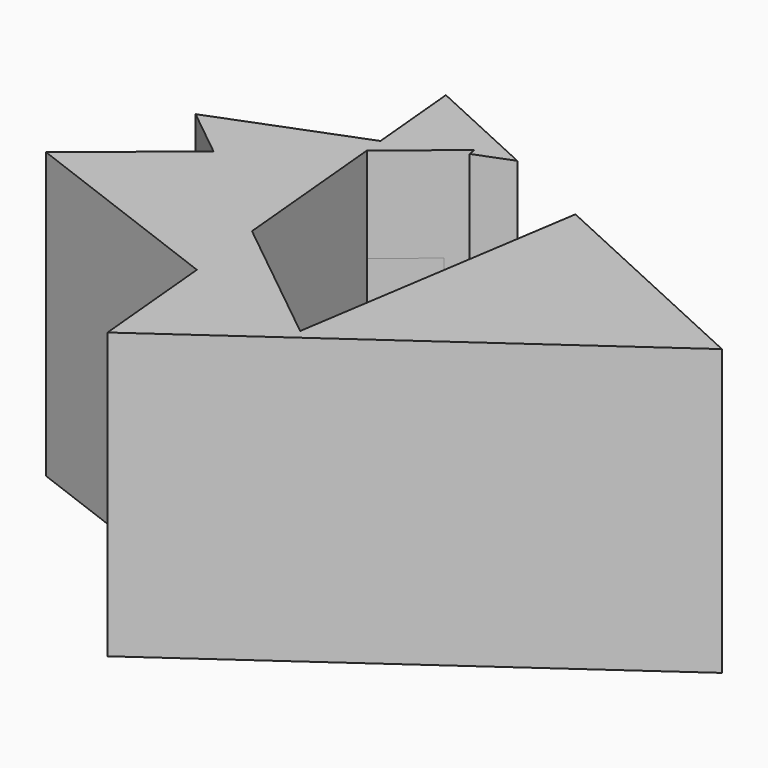
from build123d import *

# Parameters (mm, degrees)
F1_DEPTH = 50.8
F3_DEPTH = 25.4


with BuildPart() as f1:
    # F0 (on Top) → F1 (new body)
    with BuildSketch(Plane.XY):
        Polygon((-12.6629137388, 80.0378082279), (11.9105604724, 68.7390780869), (15.3360962868, 90.9066982567), align=None)
    extrude(amount=F1_DEPTH)



with BuildPart() as f1b:
    # F0 (on Top) → F1, piece 2 (new body)
    with BuildSketch(Plane.XY):
        Polygon((-34.1239980282, -0.2150503281), (-30.985997676, -33.9947231274), (73.8553851843, 40.2572341263), (11.9105604724, 68.7390780869), (-0.0020810035, -8.3510257005), (-9.8334949385, -0.4507815641), (-8.273422718, -9.9886301905), align=None)
        Polygon((-91.9102034833, 21.6327455985), (-34.1239980282, -0.2150503281), (-36.0598630347, 20.6239806361), (-64.8586318768, 43.7658507867), align=None)
        Polygon((-64.8586318768, 43.7658507867), (-40.0920589133, 64.0294115337), (-40.5727160494, 69.2035475963), (-78.2927028271, 54.5610874592), align=None)
        Polygon((-36.0598630347, 20.6239806361), (-34.1239980282, -0.2150503281), (-8.273422718, -9.9886301905), (-9.8334949385, -0.4507815641), align=None)
        Polygon((-64.8586318768, 43.7658507867), (-36.0598630347, 20.6239806361), (-40.0920589133, 64.0294115337), align=None)
        Polygon((-40.5727160494, 69.2035475963), (-40.0920589133, 64.0294115337), (-27.6250758671, 74.2296709181), align=None)
        Polygon((-22.3816425497, 76.2651107443), (-12.6629137388, 80.0378082279), (-42.8693875083, 93.9265564244), (-40.5727160494, 69.2035475963), (-27.6250758671, 74.2296709181), (-22.7068983648, 78.2536345375), align=None)
    extrude(amount=F1_DEPTH)


with BuildPart() as f1_1:
    add(f1.part)

    add(f1b.part)  # F3 merges F1b
    # F2 (on Top) + F1_face (on face) + F1_face1 (on face) → F3 (join)
    with BuildSketch(Plane.XY):
        Polygon((11.9105604724, 68.7390780869), (-0.0020810035, -8.3510257005), (-36.0598630347, 20.6239806361), (-40.0920589133, 64.0294115337), (-22.7068983648, 78.2536345375), (-22.3816425497, 76.2651107443), (-12.6629137388, 80.0378082279), (-42.8693875083, 93.9265564244), (-40.5727160494, 69.2035475963), (-78.2927028271, 54.5610874592), (-64.8586318768, 43.7658507867), (-91.9102034833, 21.6327455985), (-34.1239980282, -0.2150503281), (-30.985997676, -33.9947231274), (73.8553851843, 40.2572341263), align=None)
        with BuildLine():
            add(Edge.make_bspline(
                [(-50.4296496511, 46.5946868062), (-54.7054451045, 47.8722705974), (-66.4098019094, 35.9516436531), (-39.8370794277, 25.946602289), (-45.778728134, 45.2050174432), (-50.4296496511, 46.5946868062)],
                knots=[0, 0, 0, 0, 0.3172189531, 0.6549506471, 1, 1, 1, 1], degree=3))
        make_face(mode=Mode.SUBTRACT)
        with BuildLine():
            add(Edge.make_bspline(
                [(25.4836957902, 45.4683750868), (28.757586761, 44.6744122845), (31.136551035, 27.5849724225), (12.800043704, 32.2532783382), (22.2382097568, 46.2554493079), (25.4836957902, 45.4683750868)],
                knots=[0, 0, 0, 0, 0.35616054, 0.6469295806, 1, 1, 1, 1], degree=3))
        make_face(mode=Mode.SUBTRACT)
        with BuildLine():
            add(Edge.make_bspline(
                [(-50.4296496511, 46.5946868062), (-54.7054451045, 47.8722705974), (-66.4098019094, 35.9516436531), (-39.8370794277, 25.946602289), (-45.778728134, 45.2050174432), (-50.4296496511, 46.5946868062)],
                knots=[0, 0, 0, 0, 0.3172189531, 0.6549506471, 1, 1, 1, 1], degree=3))
        make_face()
        with BuildLine():
            add(Edge.make_bspline(
                [(25.4836957902, 45.4683750868), (28.757586761, 44.6744122845), (31.136551035, 27.5849724225), (12.800043704, 32.2532783382), (22.2382097568, 46.2554493079), (25.4836957902, 45.4683750868)],
                knots=[0, 0, 0, 0, 0.35616054, 0.6469295806, 1, 1, 1, 1], degree=3))
        make_face()
    with BuildSketch(Plane(origin=(-12.5695281599, 29.2954338549, 50.8), x_dir=(1, 0, 0), z_dir=(0, 0, 1))):
        Polygon((12.5674471564, -37.6464595554), (-23.4903348748, -8.6714532188), (-27.5225307534, 34.7339776789), (-10.1373702049, 48.9582006826), (-9.8121143898, 46.9696768894), (-0.0933855789, 50.742374373), (-30.2998593484, 64.6311225695), (-28.0031878895, 39.9081137415), (-65.7231746673, 25.2656536044), (-52.2891037169, 14.4704169318), (-79.3406753235, -7.6626882564), (-21.5544698683, -29.510484183), (-18.4164695162, -63.2901569823), (86.4249133441, 10.9618002714), (24.4800886323, 39.443644232), align=None)
    with BuildSketch(Plane(origin=(-12.5695281599, 29.2954338549, 0), x_dir=(1, 0, 0), z_dir=(0, 0, -1))):
        Polygon((-23.4903348748, 8.6714532188), (12.5674471564, 37.6464595554), (24.4800886323, -39.443644232), (86.4249133441, -10.9618002714), (-18.4164695162, 63.2901569823), (-21.5544698683, 29.510484183), (-79.3406753235, 7.6626882564), (-52.2891037169, -14.4704169318), (-65.7231746673, -25.2656536044), (-28.0031878895, -39.9081137415), (-30.2998593484, -64.6311225695), (-0.0933855789, -50.742374373), (-9.8121143898, -46.9696768894), (-10.1373702049, -48.9582006826), (-27.5225307534, -34.7339776789), align=None)
    extrude(amount=F3_DEPTH, dir=(0, 0, 1))


solid = f1_1.part
